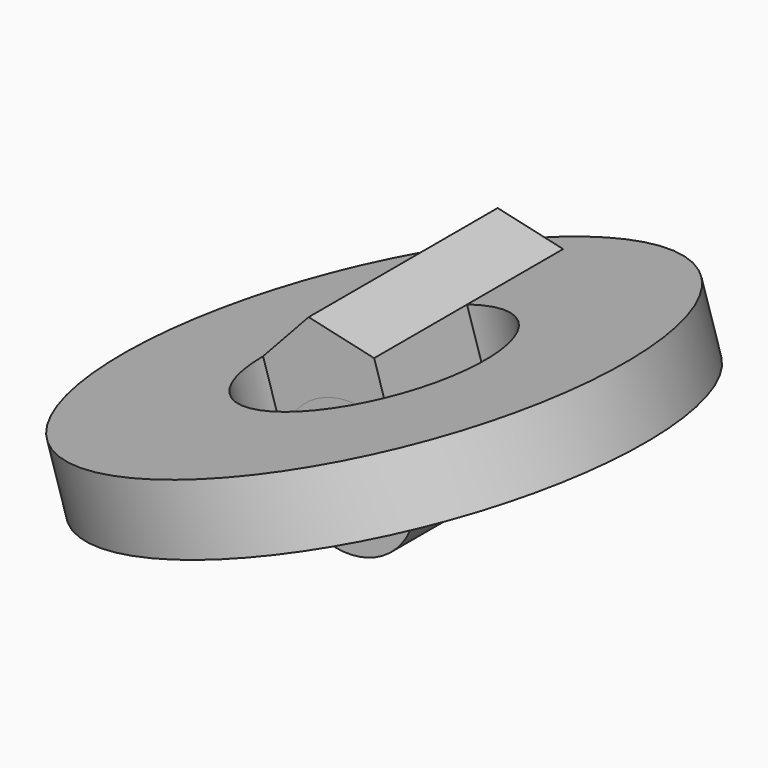
from build123d import *

# Parameters (mm, degrees)
F1_R       = 30.5852681074
F3_DEPTH   = 25.4
F2_R       = 30.5852681074
F4_DEPTH   = 4.064
F5_DEPTH   = 159.766
F5_FACE_W  = 45.4044749267
F5_FACE_H  = 159.766
F5_FACE1_W = 159.766
F5_FACE1_H = 45.4044749267


with BuildPart() as f3:
    # F1 (on face) → F3 (new body)
    with BuildSketch(Plane.XZ):
        Polygon((-13.4554065448, 43.3649441148), (-44.2828465095, 10.0297481713), (-30.8274399647, -33.3351959435), (13.4554065448, -43.3649441148), (44.2828465095, -10.0297481713), (30.8274399647, 33.3351959435), align=None)
        Circle(F1_R, mode=Mode.SUBTRACT)
    extrude(amount=F3_DEPTH)


with BuildPart() as f4:
    # F2 (on face) → F4 (new body)
    with BuildSketch(Plane.XZ):
        Circle(F2_R)
    extrude(amount=-F4_DEPTH)


with BuildPart() as f5:
    # F0 (on Front) → F5 (new body)
    with BuildSketch(Plane.XZ):
        Polygon((-44.2828465095, 10.0297481713), (-30.8274399647, -33.3351959435), (13.4554065448, -43.3649441148), (44.2828465095, -10.0297481713), (30.8274399647, 33.3351959435), (-13.4554065448, 43.3649441148), align=None)
    extrude(amount=F5_DEPTH)


with BuildPart() as f6:
    # F5_face (on face) → F6 (revolve)
    with BuildSketch(Plane(origin=(-8.6860167099, -79.883, -38.3500700291), x_dir=(1, 0, 0), z_dir=(-0.2208977901, 0, -0.9752969632))):
        Rectangle(F5_FACE_W, F5_FACE_H)
    revolve(axis=Axis((13.4554065448, -79.883, -43.3649441148), (0, 1, 0)))


with BuildPart() as f7:
    # F5_face1 (on face) → F7 (revolve)
    with BuildSketch(Plane(origin=(-37.5551432371, -79.883, -11.6527238861), x_dir=(0, -1, 0), z_dir=(-0.9550808414, 0, -0.2963453837))):
        Rectangle(F5_FACE1_W, F5_FACE1_H)
    revolve(axis=Axis((37.5551432371, -159.766, 11.6527238861), (0.2963453837, 0, -0.9550808414)))


solid = Compound([f3.part, f4.part, f5.part, f6.part, f7.part])
